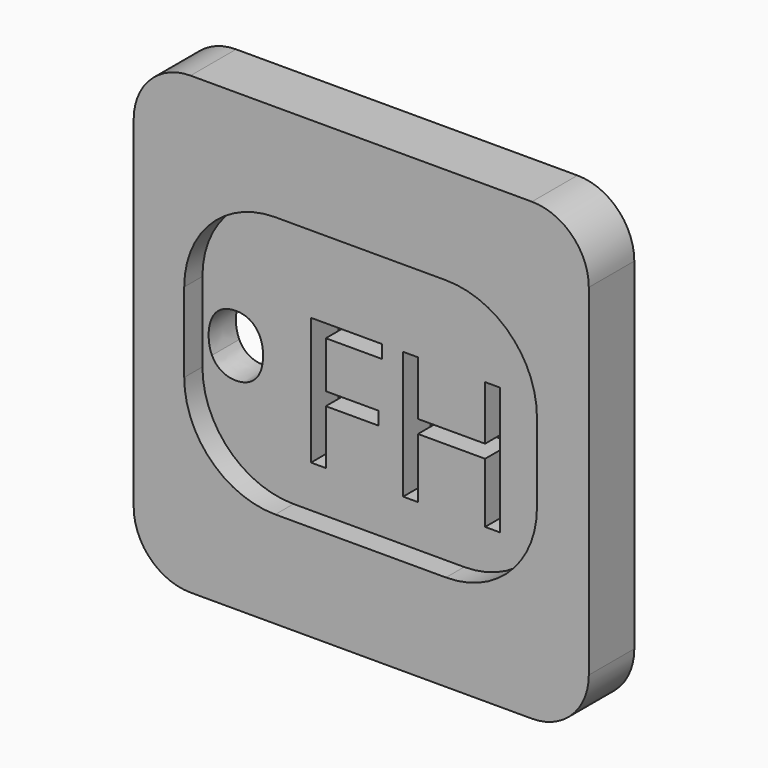
from build123d import *

# Parameters (mm, degrees)
F1_DEPTH = 3
F2_DEPTH = 5


with BuildPart() as f1:
    # F0 (on Front) → F1 (new body)
    with BuildSketch(Plane.XZ):
        with BuildLine():
            Line((-23, 0), (-8, 0))
            ThreePointArc((-8, 0), (-2.3431457505, 2.3431457505), (0, 8))
            Line((0, 8), (0, 15))
            ThreePointArc((0, 15), (-2.3431457505, 20.6568542495), (-8, 23))
            Line((-8, 23), (-23, 23))
            ThreePointArc((-23, 23), (-28.6568542495, 20.6568542495), (-31, 15))
            Line((-31, 15), (-31, 8))
            ThreePointArc((-31, 8), (-28.6568542495, 2.3431457505), (-23, 0))
        make_face()
        with BuildLine():
            add(Edge.make_bspline(
                [(-26.3173828125, 12.5717230903), (-25.6740451389, 11.8448350694), (-25.6740451389, 10.6067708333)],
                knots=[0, 0, 0, 1, 1, 1], degree=2))
            add(Edge.make_bspline(
                [(-25.6740451389, 10.6067708333), (-25.6740451389, 9.3337673611), (-26.3143446181, 8.6190321181)],
                knots=[0, 0, 0, 1, 1, 1], degree=2))
            add(Edge.make_bspline(
                [(-26.3143446181, 8.6190321181), (-26.9546440972, 7.904296875), (-28.0848524306, 7.904296875)],
                knots=[0, 0, 0, 1, 1, 1], degree=2))
            add(Edge.make_bspline(
                [(-28.0848524306, 7.904296875), (-28.7836371528, 7.904296875), (-29.3244357639, 8.232421875)],
                knots=[0, 0, 0, 1, 1, 1], degree=2))
            add(Edge.make_bspline(
                [(-29.3244357639, 8.232421875), (-29.865234375, 8.560546875), (-30.1599392361, 9.1727430556)],
                knots=[0, 0, 0, 1, 1, 1], degree=2))
            add(Edge.make_bspline(
                [(-30.1599392361, 9.1727430556), (-30.4546440972, 9.7849392361), (-30.4546440972, 10.6067708333)],
                knots=[0, 0, 0, 1, 1, 1], degree=2))
            add(Edge.make_bspline(
                [(-30.4546440972, 10.6067708333), (-30.4546440972, 11.8782552083), (-29.8181423611, 12.5884331597)],
                knots=[0, 0, 0, 1, 1, 1], degree=2))
            add(Edge.make_bspline(
                [(-29.8181423611, 12.5884331597), (-29.181640625, 13.2986111111), (-28.0514322917, 13.2986111111)],
                knots=[0, 0, 0, 1, 1, 1], degree=2))
            add(Edge.make_bspline(
                [(-28.0514322917, 13.2986111111), (-26.9607204861, 13.2986111111), (-26.3173828125, 12.5717230903)],
                knots=[0, 0, 0, 1, 1, 1], degree=2))
        make_face(mode=Mode.SUBTRACT)
        Polygon((-20.1579996961, 8.4896369224), (-20.1579996961, 3.7006579805), (-21.4600723116, 3.7006579805), (-21.4600723116, 14.904367548), (-15.2145375625, 14.904367548), (-15.2145375625, 13.7469696675), (-20.1579996961, 13.7469696675), (-20.1579996961, 9.6470348028), (-15.5136954893, 9.6470348028), (-15.5136954893, 8.4896369224), align=None, mode=Mode.SUBTRACT)
        Polygon((-4.8543552639, 14.904367548), (-4.8543552639, 3.7006579805), (-6.1564278794, 3.7006579805), (-6.1564278794, 8.9727034106), (-12.0586666469, 8.9727034106), (-12.0586666469, 3.7006579805), (-13.3607392625, 3.7006579805), (-13.3607392625, 14.904367548), (-12.0586666469, 14.904367548), (-12.0586666469, 10.1374576335), (-6.1564278794, 10.1374576335), (-6.1564278794, 14.904367548), align=None, mode=Mode.SUBTRACT)
    extrude(amount=F1_DEPTH)

    # F0 (on Front) → F2 (join)
    with BuildSketch(Plane.XZ):
        with BuildLine():
            Line((-0.4425173427, 31.5346689522), (-30.4425173427, 31.5346689522))
            ThreePointArc((-30.4425173427, 31.5346689522), (-33.9780512487, 30.0702028582), (-35.4425173427, 26.5346689522))
            Line((-35.4425173427, 26.5346689522), (-35.4425173427, -3.4653310478))
            ThreePointArc((-35.4425173427, -3.4653310478), (-33.9780512487, -7.0008649537), (-30.4425173427, -8.4653310478))
            Line((-30.4425173427, -8.4653310478), (-0.4425173427, -8.4653310478))
            ThreePointArc((-0.4425173427, -8.4653310478), (3.0930165632, -7.0008649537), (4.5574826573, -3.4653310478))
            Line((4.5574826573, -3.4653310478), (4.5574826573, 26.5346689522))
            ThreePointArc((4.5574826573, 26.5346689522), (3.0930165632, 30.0702028582), (-0.4425173427, 31.5346689522))
        make_face()
        with BuildLine():
            ThreePointArc((0, 8), (-2.3431457505, 2.3431457505), (-8, 0))
            Line((-8, 0), (-23, 0))
            ThreePointArc((-23, 0), (-28.6568542495, 2.3431457505), (-31, 8))
            Line((-31, 8), (-31, 15))
            ThreePointArc((-31, 15), (-28.6568542495, 20.6568542495), (-23, 23))
            Line((-23, 23), (-8, 23))
            ThreePointArc((-8, 23), (-2.3431457505, 20.6568542495), (0, 15))
            Line((0, 15), (0, 8))
        make_face(mode=Mode.SUBTRACT)
    extrude(amount=F2_DEPTH)


solid = f1.part
